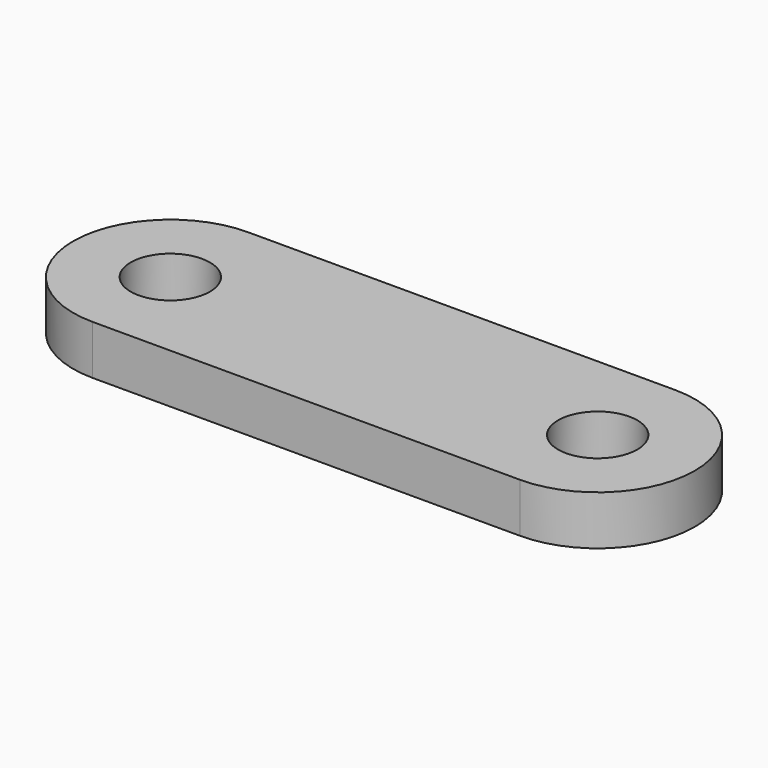
from build123d import *

# Parameters (mm, degrees)
SKETCH_R  = 5.1
PAD_DEPTH = 6.35


with BuildPart() as part:
    # Sketch → Pad (new body)
    with BuildSketch(Plane.XY):
        with BuildLine():
            ThreePointArc((-27.5, 12.5), (-40, 1e-06), (-27.500002, -12.5))
            Line((27.499963, -12.5), (-27.500002, -12.5))
            ThreePointArc((27.499963, -12.5), (39.999963, -1.8e-05), (27.5, 12.5))
            Line((-27.5, 12.5), (27.5, 12.5))
        make_face()
        with Locations((-27.5, 0)):
            Circle(SKETCH_R, mode=Mode.SUBTRACT)
        with Locations((27.499963, 0)):
            Circle(SKETCH_R, mode=Mode.SUBTRACT)
    extrude(amount=PAD_DEPTH)


solid = part.part
